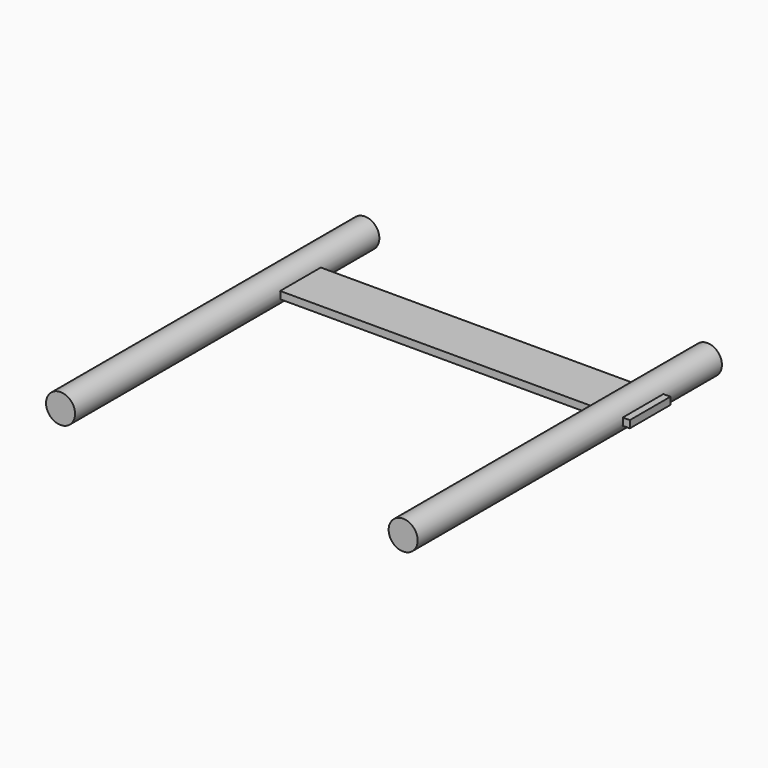
from build123d import *

# Parameters (mm, degrees)
F0_R     = 50
F1_DEPTH = 655
F2_W     = 1314.7466778755
F2_H     = 174.9388724566
F3_DEPTH = 12.5


with BuildPart() as f1:
    # F0 (on Front) → F1 (new body, symmetric)
    with BuildSketch(Plane.XZ):
        with Locations((590, 0)):
            Circle(F0_R)
    extrude(amount=F1_DEPTH, both=True)



with BuildPart() as f1b:
    # F0 (on Front) → F1, piece 2 (new body, symmetric)
    with BuildSketch(Plane.XZ):
        with Locations((-590, 0)):
            Circle(F0_R)
    extrude(amount=F1_DEPTH, both=True)


with BuildPart() as f1_1:
    add(f1.part)

    add(f1b.part)  # F3 merges F1b
    # F2 (on Top) → F3 (join, symmetric)
    with BuildSketch(Plane.XY):
        with Locations((5.4104626179, 317.414842546)):
            Rectangle(F2_W, F2_H)
    extrude(amount=F3_DEPTH, both=True)


solid = f1_1.part
